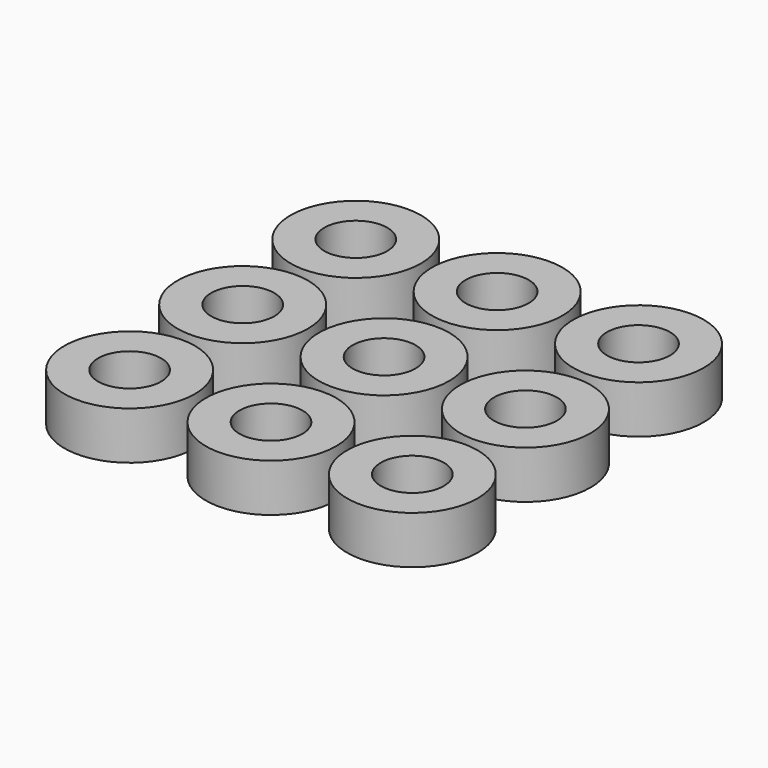
from build123d import *

# Parameters (mm, degrees)
F0_R     = 3
F0_R_2   = 1.45
F1_DEPTH = 2.2


with BuildPart() as f1:
    # F0 (on Top) → F1 (new body)
    with BuildSketch(Plane.XY):
        with Locations((13, 13)):
            Circle(F0_R)
        with Locations((13, 13)):
            Circle(F0_R_2, mode=Mode.SUBTRACT)
        with Locations((6.5, 13)):
            Circle(F0_R)
        with Locations((6.5, 13)):
            Circle(F0_R_2, mode=Mode.SUBTRACT)
        with Locations((0, 13)):
            Circle(F0_R)
        with Locations((0, 13)):
            Circle(F0_R_2, mode=Mode.SUBTRACT)
        with Locations((0, 6.5)):
            Circle(F0_R)
        with Locations((0, 6.5)):
            Circle(F0_R_2, mode=Mode.SUBTRACT)
        with Locations((6.5, 6.5)):
            Circle(F0_R)
        with Locations((6.5, 6.5)):
            Circle(F0_R_2, mode=Mode.SUBTRACT)
        with Locations((13, 6.5)):
            Circle(F0_R)
        with Locations((13, 6.5)):
            Circle(F0_R_2, mode=Mode.SUBTRACT)
        with Locations((13, 0)):
            Circle(F0_R)
        with Locations((13, 0)):
            Circle(F0_R_2, mode=Mode.SUBTRACT)
        with Locations((6.5, 0)):
            Circle(F0_R)
        with Locations((6.5, 0)):
            Circle(F0_R_2, mode=Mode.SUBTRACT)
        Circle(F0_R)
        Circle(F0_R_2, mode=Mode.SUBTRACT)
    extrude(amount=F1_DEPTH)


solid = f1.part
